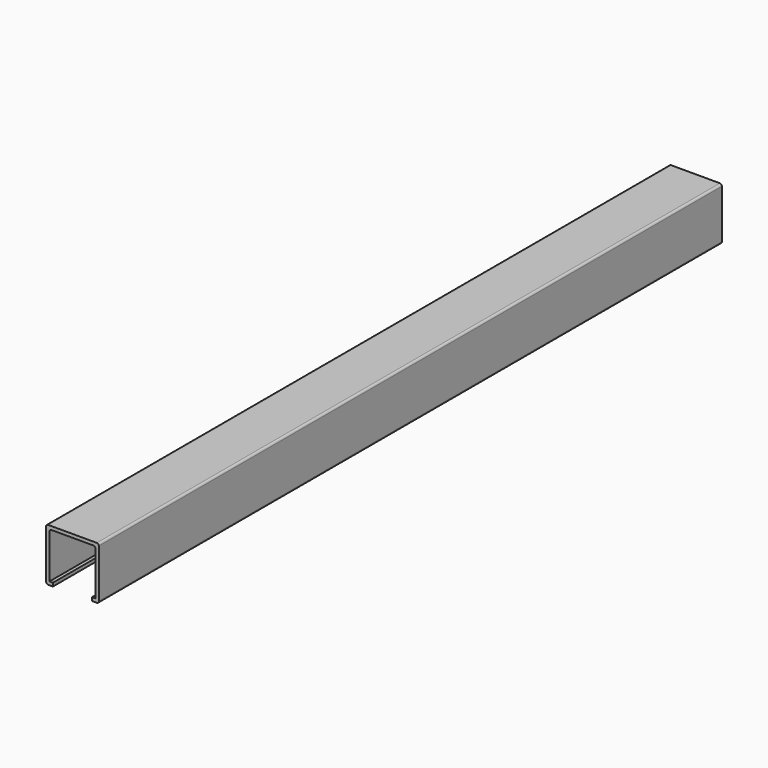
from build123d import *

# Parameters (mm, degrees)
F1_DEPTH = 304.8


with BuildPart() as f1:
    # F0 (on Front) → F1 (new body, symmetric)
    with BuildSketch(Plane.XZ):
        with BuildLine():
            ThreePointArc((20.6375, 19.05), (20.172532, 20.172532), (19.05, 20.6375))
            Line((19.05, 20.6375), (-19.05, 20.6375))
            ThreePointArc((-19.05, 20.6375), (-20.172532, 20.172532), (-20.6375, 19.05))
            Line((-20.6375, 19.05), (-20.6375, -19.05))
            ThreePointArc((-20.6375, -19.05), (-20.172532, -20.172532), (-19.05, -20.6375))
            Line((-19.05, -20.6375), (-15.283979, -20.6375))
            Line((-15.283979, -20.6375), (-15.283979, -17.98066))
            Line((-15.283979, -17.98066), (-17.98066, -17.98066))
            Line((-17.98066, -17.98066), (-17.98066, 16.39316))
            ThreePointArc((-17.98066, 16.39316), (-17.515692, 17.515692), (-16.39316, 17.98066))
            Line((-16.39316, 17.98066), (16.39316, 17.98066))
            ThreePointArc((16.39316, 17.98066), (17.515692, 17.515692), (17.98066, 16.39316))
            Line((17.98066, 16.39316), (17.98066, -17.98066))
            Line((17.98066, -17.98066), (15.283979, -17.98066))
            Line((15.283979, -17.98066), (15.283979, -20.6375))
            Line((15.283979, -20.6375), (19.05, -20.6375))
            ThreePointArc((19.05, -20.6375), (20.172532, -20.172532), (20.6375, -19.05))
            Line((20.6375, -19.05), (20.6375, 19.05))
        make_face()
    extrude(amount=F1_DEPTH, both=True)


solid = f1.part
